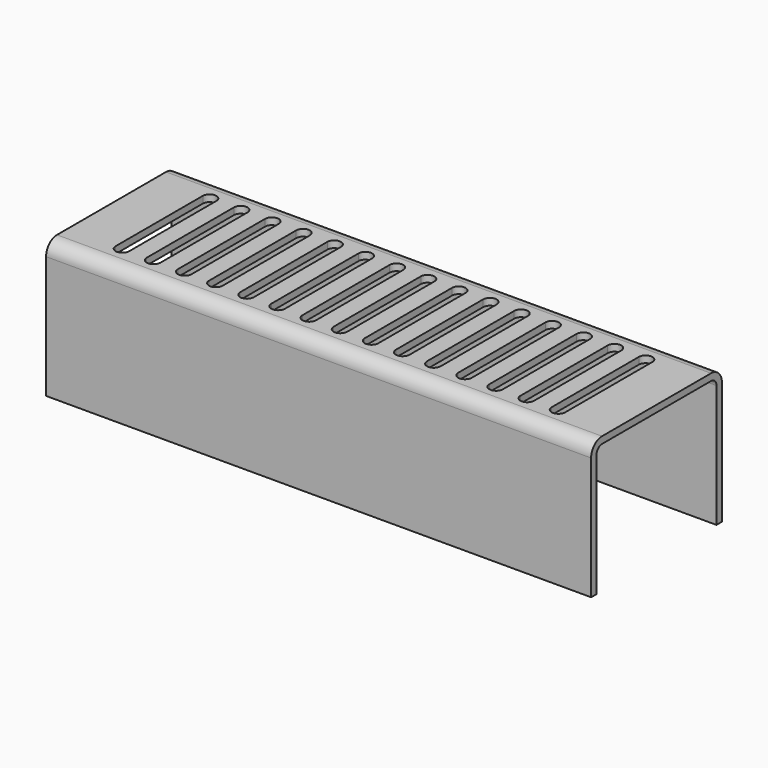
from build123d import *

# Parameters (mm, degrees)
PAD7367_DEPTH          = 254
POCKET686_DEPTH        = 63.501
LINEARPATTERN003_COUNT = 15
LINEARPATTERN003_PITCH = 14.514286
FILLET569_R            = 6.35
FILLET570_R            = 3.175


with BuildPart() as part:
    # Sketch8382 → Pad7367 (new body)
    with BuildSketch(Plane.YZ):
        Polygon((-38.1, -63.5), (-38.1, 0), (38.1, 0), (38.1, -63.5), (34.925, -63.5), (34.925, -3.175), (-34.925, -3.175), (-34.925, -63.5), align=None)
    extrude(amount=-PAD7367_DEPTH)

    # Sketch8384 → Pocket686 (cut, through all)
    with BuildSketch(Plane.XY):
        with BuildLine():
            ThreePointArc((-28.575, -25.4), (-25.4, -28.575), (-22.225, -25.4))
            Line((-22.225, -25.4), (-22.225, 25.4))
            ThreePointArc((-22.225, 25.4), (-25.4, 28.575), (-28.575, 25.4))
            Line((-28.575, 25.4), (-28.575, -25.4))
        make_face()
    pocket686 = extrude(amount=-POCKET686_DEPTH, mode=Mode.SUBTRACT)

    # LinearPattern003: Pocket686 ×15
    with Locations(*[(-i * LINEARPATTERN003_PITCH, 0, 0) for i in range(1, LINEARPATTERN003_COUNT)]):
        add(pocket686, mode=Mode.SUBTRACT)

    # Fillet569
    fillet569_edges = [part.edges().sort_by_distance(p)[0] for p in [
        (-127, -38.1, 0),
        (-127, 38.1, 0),
    ]]
    fillet(fillet569_edges, radius=FILLET569_R)

    # Fillet570
    fillet570_edges = [part.edges().sort_by_distance(p)[0] for p in [
        (-127, -34.925, -3.175),
        (-127, 34.925, -3.175),
    ]]
    fillet(fillet570_edges, radius=FILLET570_R)


with BuildPart() as part_1:
    # Body6681 placement: moved
    add(part.part.moved(Location((381, 0, 63.5))))


solid = part_1.part
